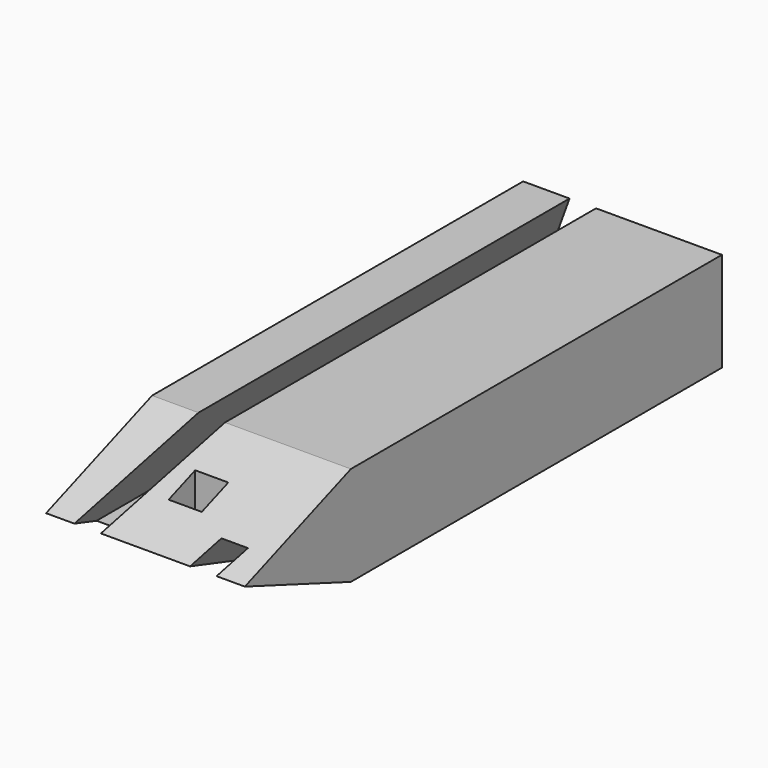
from build123d import *

# Parameters (mm, degrees)
F1_DEPTH = 160
F2_W     = 10
F2_H     = 10
F3_DEPTH = 60
F5_DEPTH = 60


with BuildPart() as f1:
    # F0 (on Front) → F1 (new body, symmetric)
    with BuildSketch(Plane.XZ):
        Polygon((30, -15), (30, 15), (-8, 15), (-14.8404028665, -3.7938524157), (-22.8404028665, -3.7938524157), (-16, 15), (-30, 15), (-30, -15), (8, -15), (14.8404028665, 3.7938524157), (22.8404028665, 3.7938524157), (16, -15), align=None)
    extrude(amount=F1_DEPTH, both=True)

    # F2 (on face) → F3 (cut)
    with BuildSketch(Plane.XY.offset(15)):
        Rectangle(F2_W, F2_H)
    extrude(amount=-F3_DEPTH, mode=Mode.SUBTRACT)

    # F4 (on face) → F5 (cut)
    with BuildSketch(Plane.YZ.offset(30)):
        Polygon((0, 7.5), (0, 15), (-160, 15), (-160, -15), (0, -15), (0, -7.5), (-20, 0), align=None)
        Polygon((20, 15), (0, 15), (0, 7.5), align=None)
        Polygon((0, -15), (20, -15), (0, -7.5), align=None)
    extrude(amount=-F5_DEPTH, mode=Mode.SUBTRACT)


solid = f1.part
